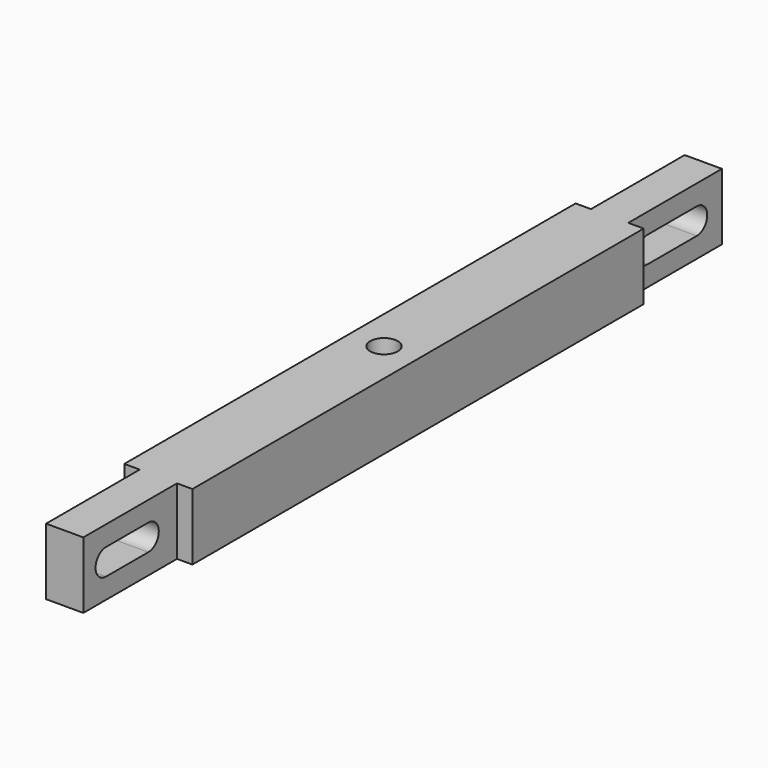
from build123d import *

# Parameters (mm, degrees)
F0_R     = 2.6
F1_DEPTH = 12.5
F3_DEPTH = 25
F6_DEPTH = 25


with BuildPart() as f1:
    # F0 (on Top) → F1 (new body)
    with BuildSketch(Plane.XY):
        Polygon((3.5, -53), (6.3968370669, -53), (6.3968370669, 53), (3.5, 53), (3.5, 75), (-3.5, 75), (-3.5, 53), (-6.3968370669, 53), (-6.3968370669, -53), (-3.5, -53), (-3.5, -75), (3.5, -75), align=None)
        Circle(F0_R, mode=Mode.SUBTRACT)
    extrude(amount=F1_DEPTH)

    # F2 (on face) → F3 (cut)
    with BuildSketch(Plane.YZ.offset(3.5)):
        with BuildLine():
            Line((69.0972208977, 8.7), (57.500641793, 8.7))
            ThreePointArc((57.500641793, 8.7), (55.050641793, 6.25), (57.500641793, 3.8))
            Line((57.500641793, 3.8), (69.0972208977, 3.8))
            ThreePointArc((69.0972208977, 3.8), (71.5472208977, 6.25), (69.0972208977, 8.7))
        make_face()
    extrude(amount=-F3_DEPTH, mode=Mode.SUBTRACT)

    # F5 (on face) → F6 (cut)
    with BuildSketch(Plane.YZ.offset(3.5)):
        with BuildLine():
            Line((-69.7134453715, 8.7458659336), (-69.6451475877, 8.7458675667))
            ThreePointArc((-69.6451475877, 8.7458675667), (-69.6792964853, 8.7461047508), (-69.7134453715, 8.7458659336))
        make_face()
        with BuildLine():
            Line((-59.7258945025, 8.7461047508), (-69.6451475877, 8.7458675667))
            Line((-69.6451475877, 8.7458675667), (-69.7134453715, 8.7458659336))
            ThreePointArc((-69.7134453715, 8.7458659336), (-72.1291781969, 6.2790006), (-69.6792379022, 3.8461047515))
            Line((-69.6792379022, 3.8461047515), (-59.7258359194, 3.8461047515))
            ThreePointArc((-59.7258359194, 3.8461047515), (-57.2758359196, 6.2961340431), (-59.7258945025, 8.7461047508))
        make_face()
    extrude(amount=-F6_DEPTH, mode=Mode.SUBTRACT)


solid = f1.part
